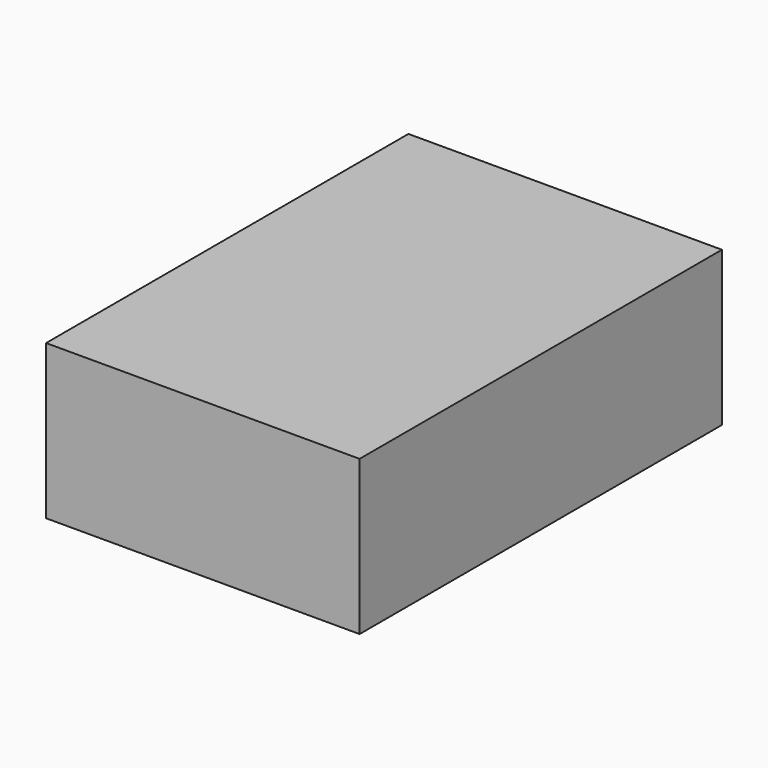
from build123d import *

# Parameters (mm, degrees)
BOX013_W     = 59
BOX013_H     = 87
BOX013_DEPTH = 29
BOX012_W     = 63
BOX012_H     = 91
BOX012_DEPTH = 31


with BuildPart() as cube012:
    # Box013 → Box013 (new body)
    with BuildSketch(Plane(origin=(-23, -39, -3), x_dir=(1, 0, 0), z_dir=(0, 0, 1))):
        with Locations((29.5, 43.5)):
            Rectangle(BOX013_W, BOX013_H)
    extrude(amount=BOX013_DEPTH)


with BuildPart() as cut009:
    # Box012 → Box012 (new body)
    with BuildSketch(Plane(origin=(-25, -41, -3), x_dir=(1, 0, 0), z_dir=(0, 0, 1))):
        with Locations((31.5, 45.5)):
            Rectangle(BOX012_W, BOX012_H)
    extrude(amount=BOX012_DEPTH)

    # Cut009: cut Cube012
    add(cube012.part, mode=Mode.SUBTRACT)


with BuildPart() as cut009_1:
    # Cut009 placement: moved
    add(cut009.part.moved(Location((0, 2, 0))))


solid = cut009_1.part
